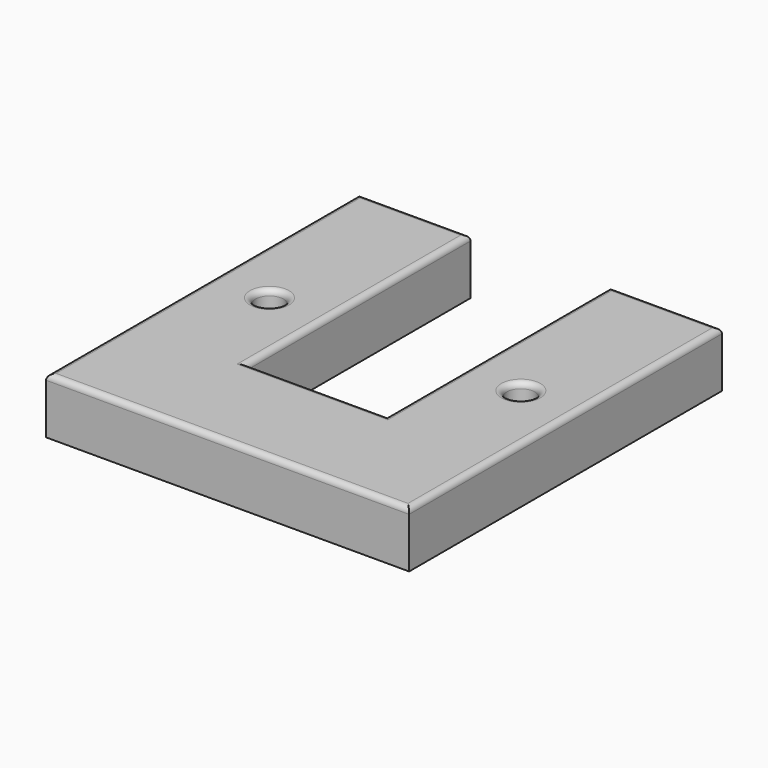
from build123d import *

# Parameters (mm, degrees)
F0_R     = 2.5
F1_DEPTH = 10
F2_DEPTH = 10
F3_R     = 1


with BuildPart() as f1:
    # F0 (on Top) → F1 (new body)
    with BuildSketch(Plane.XY):
        Polygon((-4.778127, 51.351744), (-24.778127, 51.351744), (-24.778127, -18.648256), (40.221873, -18.648256), (40.221873, 51.351744), (20.221873, 51.351744), (20.221873, 1.351744), (-4.778127, 1.351744), align=None)
        with Locations((-14.778127, 18.851744)):
            Circle(F0_R, mode=Mode.SUBTRACT)
        with Locations((30.221873, 18.851744)):
            Circle(F0_R, mode=Mode.SUBTRACT)
    extrude(amount=F1_DEPTH)

    # F0 (on Top) → F2 (join)
    with BuildSketch(Plane.XY):
        Polygon((-4.778127, 51.351744), (-24.778127, 51.351744), (-24.778127, -18.648256), (40.221873, -18.648256), (40.221873, 51.351744), (20.221873, 51.351744), (20.221873, 1.351744), (-4.778127, 1.351744), align=None)
        with Locations((-14.778127, 18.851744)):
            Circle(F0_R, mode=Mode.SUBTRACT)
        with Locations((30.221873, 18.851744)):
            Circle(F0_R, mode=Mode.SUBTRACT)
    extrude(amount=F2_DEPTH)

    # F3
    f3_edges = [f1.edges().sort_by_distance(p)[0] for p in [
        (-14.778127, 51.351744, 10),
        (-24.778127, 16.351744, 10),
        (7.721873, -18.648256, 10),
        (40.221873, 16.351744, 10),
        (30.221873, 51.351744, 10),
        (20.221873, 26.351744, 10),
        (7.721873, 1.351744, 10),
        (-4.778127, 26.351744, 10),
        (-17.278127, 18.851744, 10),
        (27.721873, 18.851744, 10),
    ]]
    fillet(f3_edges, radius=F3_R)


solid = f1.part
